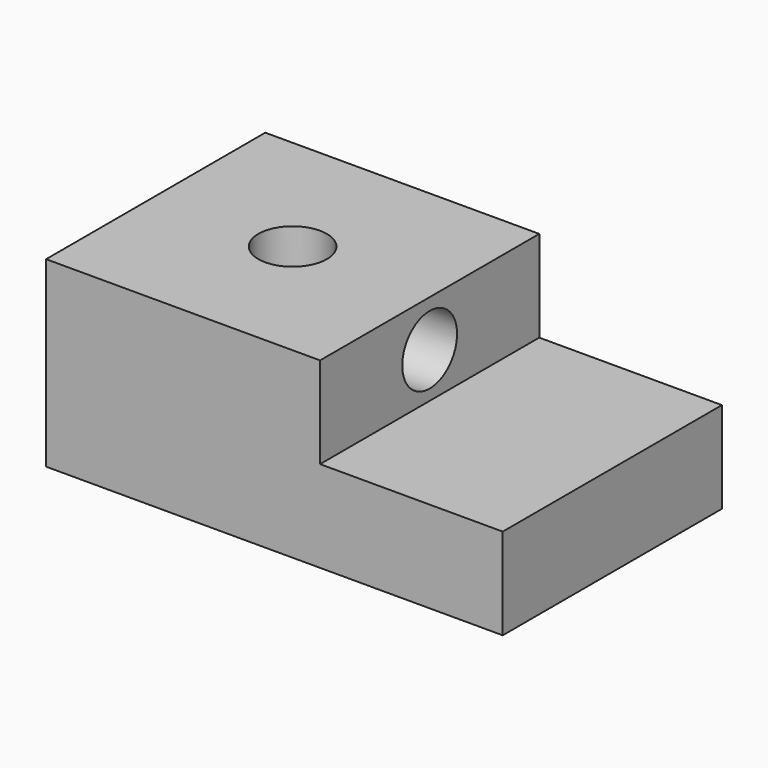
from build123d import *

# Parameters (mm, degrees)
F2_W     = 76.2
F2_H     = 50.8
F3_DEPTH = 76.2
F1_W     = 127
F1_H     = 76.2
F4_DEPTH = 25.4
F5_R     = 9.525
F7_DEPTH = 25.4
F6_R     = 9.525
F9_DEPTH = 25.4


with BuildPart() as f3:
    # F2 (on Right) → F3 (new body)
    with BuildSketch(Plane.YZ):
        with Locations((38.1, 25.4)):
            Rectangle(F2_W, F2_H)
    extrude(amount=F3_DEPTH)

    # F1 (on Top) → F4 (join)
    with BuildSketch(Plane.XY):
        with Locations((63.5, 38.1)):
            Rectangle(F1_W, F1_H)
    extrude(amount=F4_DEPTH)

    # F5 (on face) → F7 (cut)
    with BuildSketch(Plane.XY.offset(50.8)):
        with Locations((38.089141, 38.1)):
            Circle(F5_R)
    extrude(amount=-F7_DEPTH, mode=Mode.SUBTRACT)

    # F6 (on face) → F9 (cut)
    with BuildSketch(Plane.YZ.offset(76.2)):
        with Locations((38.1, 37.928037)):
            Circle(F6_R)
    extrude(amount=-F9_DEPTH, mode=Mode.SUBTRACT)


solid = f3.part
